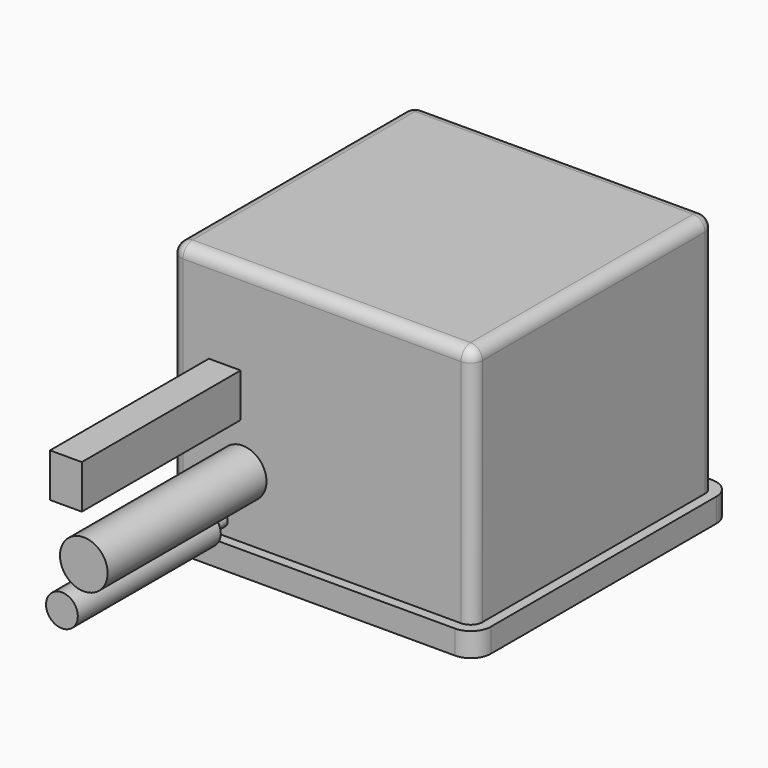
from build123d import *

# Parameters (mm, degrees)
CYLINDER042_R          = 4
CYLINDER042_DEPTH      = 61
CYLINDER042_ROLL_ANGLE = 90
CYLINDER047_R          = 4
CYLINDER047_DEPTH      = 45
CYLINDER047_ROLL_ANGLE = 90
CYLINDER045_R          = 1.75
CYLINDER045_DEPTH      = 31
CYLINDER045_ROLL_ANGLE = 90
CYLINDER046_R          = 4
CYLINDER046_DEPTH      = 45
CYLINDER046_ROLL_ANGLE = 90
CYLINDER043_R          = 6
CYLINDER043_DEPTH      = 63
CYLINDER043_ROLL_ANGLE = 90
BOX038_W               = 8
BOX038_H               = 58
BOX038_DEPTH           = 11
CYLINDER044_R          = 1.75
CYLINDER044_DEPTH      = 23
CYLINDER044_ROLL_ANGLE = 90
BOX040_W               = 81
BOX040_H               = 81
BOX040_DEPTH           = 6
FILLET018008_R         = 5
BOX039_W               = 76
BOX039_H               = 76
BOX039_DEPTH           = 66
FILLET018007_R         = 3


with BuildPart() as cylinder064:
    # Cylinder042 → Cylinder042 (new body)
    with BuildSketch(Plane.XY):
        Circle(CYLINDER042_R)
    extrude(amount=CYLINDER042_DEPTH)


with BuildPart() as cylinder064_1:
    # Cylinder042 roll: moved
    add(cylinder064.part.rotate(Axis((0, 0, 0), (1, 0, 0)), CYLINDER042_ROLL_ANGLE))


with BuildPart() as cylinder064_2:
    # Cylinder042 placement: moved
    add(cylinder064_1.part.moved(Location((-5, 124, 89.6))))


with BuildPart() as cylinder069:
    # Cylinder047 → Cylinder047 (new body)
    with BuildSketch(Plane.XY):
        Circle(CYLINDER047_R)
    extrude(amount=CYLINDER047_DEPTH)


with BuildPart() as cylinder069_1:
    # Cylinder047 roll: moved
    add(cylinder069.part.rotate(Axis((0, 0, 0), (1, 0, 0)), CYLINDER047_ROLL_ANGLE))


with BuildPart() as cylinder069_2:
    # Cylinder047 placement: moved
    add(cylinder069_1.part.moved(Location((-8.5, 124, 71.5))))


with BuildPart() as cylinder067:
    # Cylinder045 → Cylinder045 (new body)
    with BuildSketch(Plane.XY):
        Circle(CYLINDER045_R)
    extrude(amount=CYLINDER045_DEPTH)


with BuildPart() as cylinder067_1:
    # Cylinder045 roll: moved
    add(cylinder067.part.rotate(Axis((0, 0, 0), (1, 0, 0)), CYLINDER045_ROLL_ANGLE))


with BuildPart() as cylinder067_2:
    # Cylinder045 placement: moved
    add(cylinder067_1.part.moved(Location((-8.5, 94, 71.5))))


with BuildPart() as cylinder068:
    # Cylinder046 → Cylinder046 (new body)
    with BuildSketch(Plane.XY):
        Circle(CYLINDER046_R)
    extrude(amount=CYLINDER046_DEPTH)


with BuildPart() as cylinder068_1:
    # Cylinder046 roll: moved
    add(cylinder068.part.rotate(Axis((0, 0, 0), (1, 0, 0)), CYLINDER046_ROLL_ANGLE))


with BuildPart() as cylinder068_2:
    # Cylinder046 placement: moved
    add(cylinder068_1.part.moved(Location((-8.5, -7, 71.5))))


with BuildPart() as cylinder065:
    # Cylinder043 → Cylinder043 (new body)
    with BuildSketch(Plane.XY):
        Circle(CYLINDER043_R)
    extrude(amount=CYLINDER043_DEPTH)


with BuildPart() as cylinder065_1:
    # Cylinder043 roll: moved
    add(cylinder065.part.rotate(Axis((0, 0, 0), (1, 0, 0)), CYLINDER043_ROLL_ANGLE))


with BuildPart() as cylinder065_2:
    # Cylinder043 placement: moved
    add(cylinder065_1.part.moved(Location((-3, 11, 83.5))))


with BuildPart() as cube037:
    # Box038 → Box038 (new body)
    with BuildSketch(Plane(origin=(-11.5, -52, 95), x_dir=(1, 0, 0), z_dir=(0, 0, 1))):
        with Locations((4, 29)):
            Rectangle(BOX038_W, BOX038_H)
    extrude(amount=BOX038_DEPTH)


with BuildPart() as cylinder066:
    # Cylinder044 → Cylinder044 (new body)
    with BuildSketch(Plane.XY):
        Circle(CYLINDER044_R)
    extrude(amount=CYLINDER044_DEPTH)


with BuildPart() as cylinder066_1:
    # Cylinder044 roll: moved
    add(cylinder066.part.rotate(Axis((0, 0, 0), (1, 0, 0)), CYLINDER044_ROLL_ANGLE))


with BuildPart() as cylinder066_2:
    # Cylinder044 placement: moved
    add(cylinder066_1.part.moved(Location((-8.5, 1, 71.5))))


with BuildPart() as fillet018008:
    # Box040 → Box040 (new body)
    with BuildSketch(Plane(origin=(-23.5, -4.5, 63), x_dir=(1, 0, 0), z_dir=(0, 0, 1))):
        with Locations((40.5, 40.5)):
            Rectangle(BOX040_W, BOX040_H)
    extrude(amount=BOX040_DEPTH)

    # Fillet018008
    fillet018008_edges = [fillet018008.edges().sort_by_distance(p)[0] for p in [
        (-23.5, -4.5, 66),
        (-23.5, 76.5, 66),
        (57.5, -4.5, 66),
        (57.5, 76.5, 66),
    ]]
    fillet(fillet018008_edges, radius=FILLET018008_R)


with BuildPart() as fillet018008_1:
    # Fillet018008 placement: moved
    add(fillet018008.part.moved(Location((0, 0, -1))))


with BuildPart() as corte_positivo:
    # Box039 → Box039 (new body)
    with BuildSketch(Plane(origin=(-21, -2, 63), x_dir=(1, 0, 0), z_dir=(0, 0, 1))):
        with Locations((38, 38)):
            Rectangle(BOX039_W, BOX039_H)
    extrude(amount=BOX039_DEPTH)

    # Fillet018007
    fillet018007_edges = [corte_positivo.edges().sort_by_distance(p)[0] for p in [
        (-21, -2, 96),
        (-21, 36, 129),
        (-21, 74, 96),
        (55, -2, 96),
        (55, 36, 129),
        (55, 74, 96),
        (17, -2, 129),
        (17, 74, 129),
    ]]
    fillet(fillet018007_edges, radius=FILLET018007_R)

    # Fusion033: union Fillet018008
    add(fillet018008_1.part)

    # Fusion034: union Cylinder064, Cylinder069, Cylinder067, Cylinder068, Cylinder065, Cube037, Cylinder066
    add(cylinder064_2.part)
    add(cylinder069_2.part)
    add(cylinder067_2.part)
    add(cylinder068_2.part)
    add(cylinder065_2.part)
    add(cube037.part)
    add(cylinder066_2.part)


solid = corte_positivo.part
